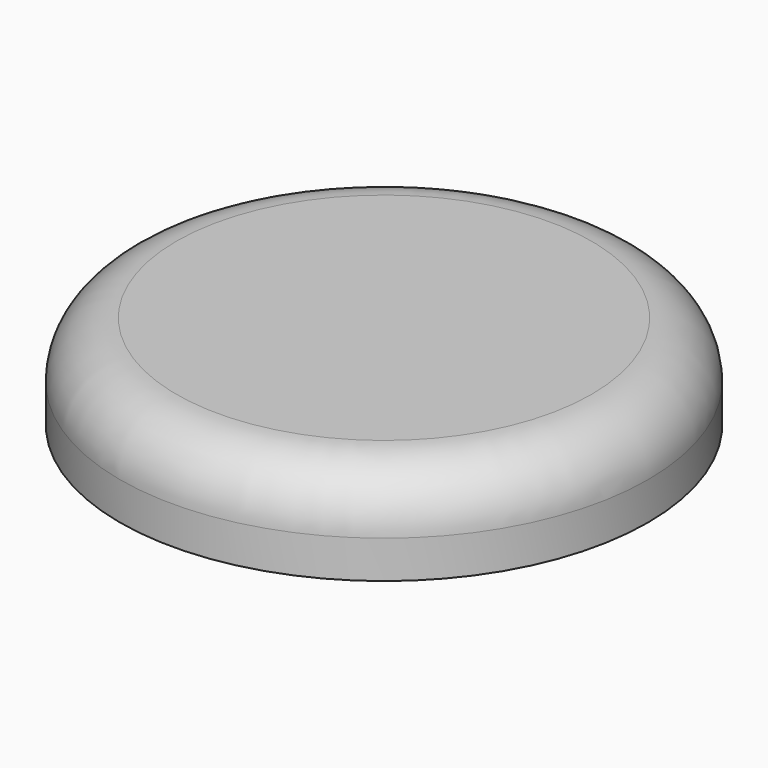
from build123d import *

# Parameters (mm, degrees)
CYLINDER085_R     = 1
CYLINDER085_DEPTH = 3.5
CYLINDER087_R     = 2
CYLINDER087_DEPTH = 3.5
CYLINDER086_R     = 7
CYLINDER086_DEPTH = 2.5
FILLET054_R       = 1.5


with BuildPart() as cylinder166:
    # Cylinder085 → Cylinder085 (new body)
    with BuildSketch(Plane(origin=(46, -9, 6), x_dir=(1, 0, 0), z_dir=(0, 0, 1))):
        Circle(CYLINDER085_R)
    extrude(amount=CYLINDER085_DEPTH)


with BuildPart() as cut111:
    # Cylinder087 → Cylinder087 (new body)
    with BuildSketch(Plane(origin=(46, -9, 6), x_dir=(1, 0, 0), z_dir=(0, 0, 1))):
        Circle(CYLINDER087_R)
    extrude(amount=CYLINDER087_DEPTH)

    # Cut111: cut Cylinder166
    add(cylinder166.part, mode=Mode.SUBTRACT)


with BuildPart() as fusion066:
    # Cylinder086 → Cylinder086 (new body)
    with BuildSketch(Plane(origin=(46, -9, 8), x_dir=(1, 0, 0), z_dir=(0, 0, 1))):
        Circle(CYLINDER086_R)
    extrude(amount=CYLINDER086_DEPTH)

    # Fillet054
    fillet054_edges = [fusion066.edges().sort_by_distance(p)[0] for p in [
        (39, -9, 10.5),
    ]]
    fillet(fillet054_edges, radius=FILLET054_R)

    # Fusion066: union Cut111
    add(cut111.part)


with BuildPart() as fusion066_1:
    # Fusion066 placement: moved
    add(fusion066.part.moved(Location((26, 0, 0))))


solid = fusion066_1.part
